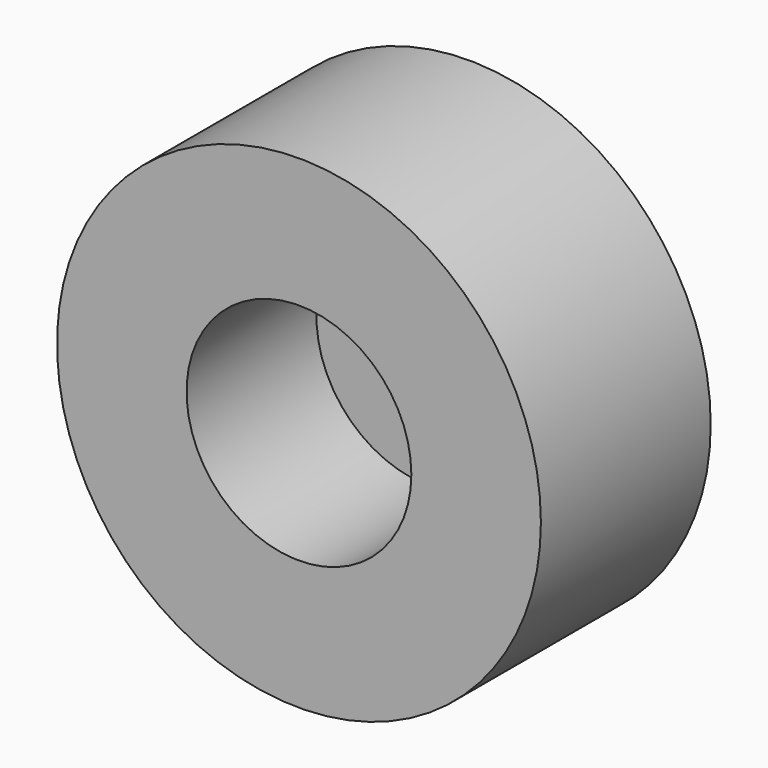
from build123d import *

# Parameters (mm, degrees)
F0_R     = 19.685
F1_DEPTH = 17.272
F2_R     = 9.144
F3_DEPTH = 13.208
F4_R     = 1.999421
F5_DEPTH = 25.4


with BuildPart() as f1:
    # F0 (on Front) → F1 (new body)
    with BuildSketch(Plane.XZ):
        with Locations((251.20312, 74.854024)):
            Circle(F0_R)
    extrude(amount=F1_DEPTH)

    # F2 (on face) → F3 (cut)
    with BuildSketch(Plane.XZ.offset(17.272)):
        with Locations((251.20312, 74.854024)):
            Circle(F2_R)
    extrude(amount=-F3_DEPTH, mode=Mode.SUBTRACT)

    # F4 (on face) → F5 (cut)
    with BuildSketch(Plane.XZ.offset(4.064)):
        with Locations((125.80603, 237.004958)):
            Circle(F4_R)
        with Locations((-78.629516, 256.54611)):
            Circle(F4_R)
        with Locations((-237.004958, 125.80603)):
            Circle(F4_R)
        with Locations((-256.54611, -78.629516)):
            Circle(F4_R)
        with Locations((-125.80603, -237.004958)):
            Circle(F4_R)
        with Locations((78.629516, -256.54611)):
            Circle(F4_R)
        with Locations((237.004958, -125.80603)):
            Circle(F4_R)
    extrude(amount=-F5_DEPTH, mode=Mode.SUBTRACT)


solid = f1.part
